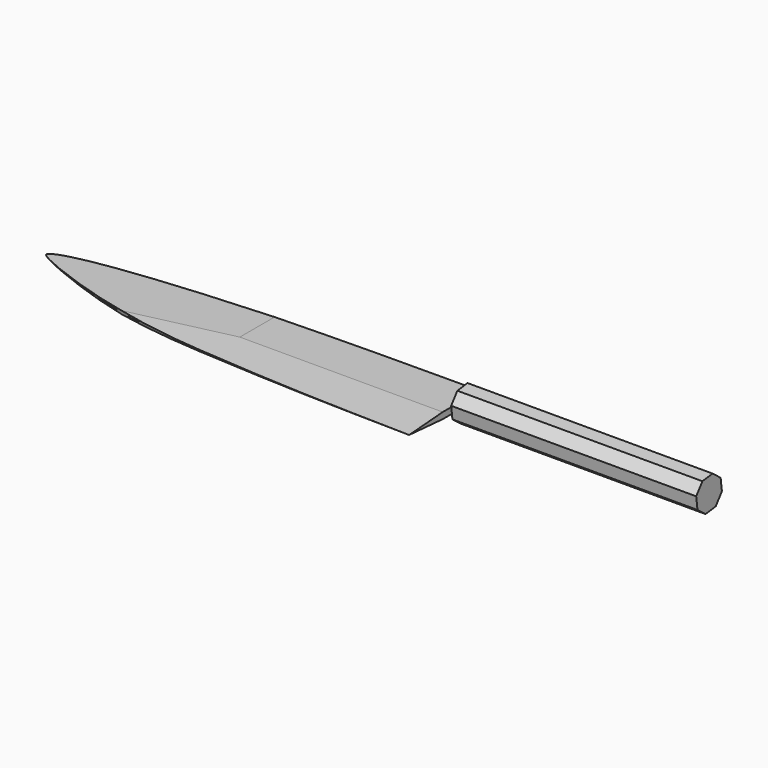
from build123d import *

# Parameters (mm, degrees)
F1_DEPTH = 1.6
F3_DEPTH = 210.2019293582
F5_DEPTH = 30
F7_DEPTH = 125


with BuildPart() as f1:
    # F0 (on Top) → F1 (new body, symmetric)
    with BuildSketch(Plane.XY):
        with BuildLine():
            Line((0, 14), (0, 17))
            add(Edge.make_bspline(
                [(0, 17), (-169.40086329, 17), (-208.7559604407, 7.7993667343), (-211.0354385147, 1.4108706831), (-157.7108088282, -20.2400259269), (-92.1005586774, -24.5817541259), (-54.5433768682, -27), (0, -28)],
                knots=[0, 0, 0, 0, 0.3573007619, 0.3819446975, 0.5564144399, 0.7548280711, 1, 1, 1, 1], degree=3))
            Line((0, -28), (0, 0))
            Line((0, 0), (100, 3))
            Line((100, 3), (100, 11))
            Line((100, 11), (0, 14))
        make_face()
    extrude(amount=F1_DEPTH, both=True)

    # F2 (on face) → F3 (cut, through all)
    with BuildSketch(Plane.YZ):
        Polygon((-6.5955766477, -1.6), (-28, 0), (-6.5955766477, 1.6), (-6.5955766477, 8.5014778621), (-41.2709554795, 6.9573632517), (-40.3350554407, -14.059657231), (-6.5955766477, -11.1044486313), align=None)
    extrude(amount=-F3_DEPTH, mode=Mode.SUBTRACT)

    # F4 (on Front) → F5 (cut, symmetric)
    with BuildSketch(Plane.XZ):
        Polygon((-210.2009290436, 0), (-103.4982353449, 1.6), (-103.4982353449, 23.7350686695), (-239.4033678663, 23.7350686695), (-238.3585423231, -17.7917070687), (-103.4982353449, -14.398583211), (-103.4982353449, -1.6), align=None)
    extrude(amount=F5_DEPTH, both=True, mode=Mode.SUBTRACT)


with BuildPart() as f7:
    # F6 (on Right) → F7 (new body)
    with BuildSketch(Plane.YZ):
        Polygon((15.2049313741, -2.2201579103), (14.3716513275, 4.2318739001), (9.2201579103, 8.2049313741), (2.7681260999, 7.3716513275), (-1.2049313741, 2.2201579103), (-0.3716513275, -4.2318739001), (4.7798420897, -8.2049313741), (11.2318739001, -7.3716513275), align=None)
    extrude(amount=F7_DEPTH)


solid = Compound([f1.part, f7.part])
